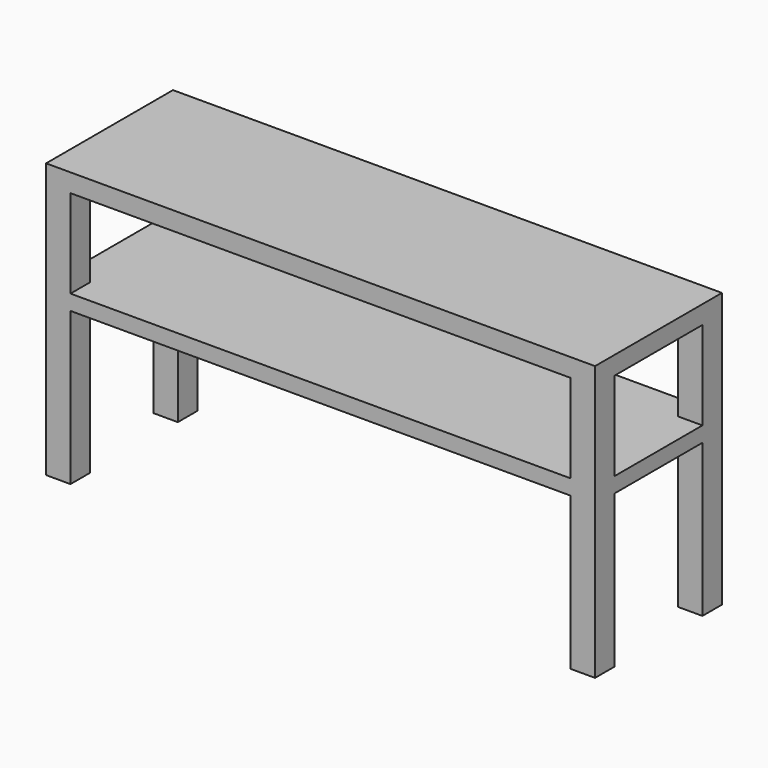
from build123d import *

# Parameters (mm, degrees)
F0_W     = 900
F0_H     = 260
F1_DEPTH = 30
F2_W     = 40
F2_H     = 40
F3_DEPTH = 450
F5_W     = 900
F5_H     = 260
F6_DEPTH = 25


with BuildPart() as f1:
    # F0 (on Top) → F1 (new body)
    with BuildSketch(Plane.XY):
        Rectangle(F0_W, F0_H)
    extrude(amount=-F1_DEPTH)

    # F2 (on Top) → F3 (join)
    with BuildSketch(Plane.XY):
        with Locations((430, 110)):
            Rectangle(F2_W, F2_H)
        with Locations((-430, 110)):
            Rectangle(F2_W, F2_H)
        with Locations((-430, -110)):
            Rectangle(F2_W, F2_H)
        with Locations((430, -110)):
            Rectangle(F2_W, F2_H)
    extrude(amount=-F3_DEPTH)

    # F5 (on offset) → F6 (join)
    with BuildSketch(Plane.XY.offset(-200)):
        Rectangle(F5_W, F5_H)
    extrude(amount=F6_DEPTH)


solid = f1.part
